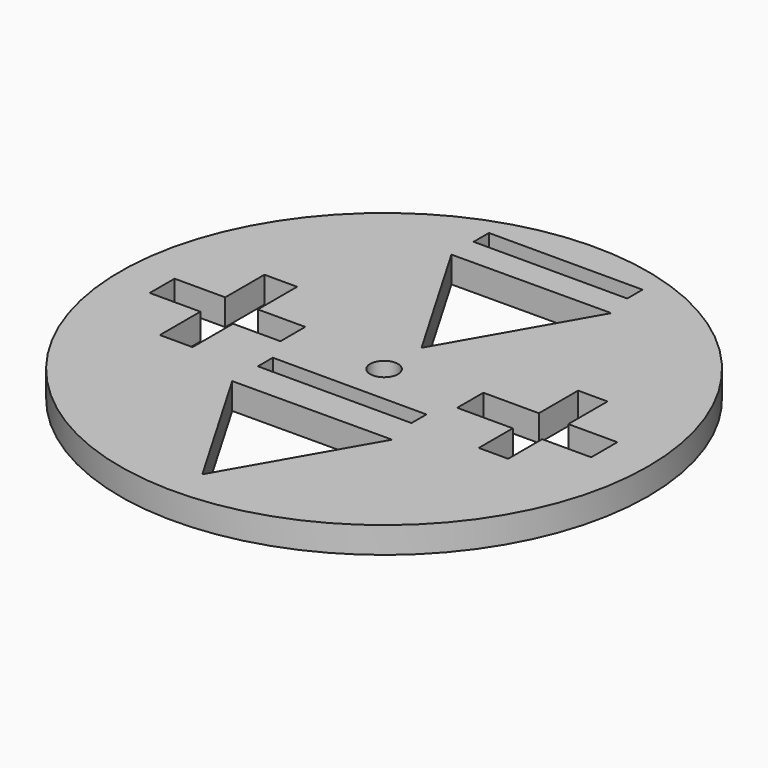
from build123d import *

# Parameters (mm, degrees)
F0_R      = 30.135624
F1_DEPTH  = 3
F2_R      = 1.590818
F3_DEPTH  = 25
F5_DEPTH  = 25
F6_W      = 3.730636
F6_H      = 14.922548
F7_DEPTH  = 25
F8_W      = 14.922549
F8_H      = 3.544105
F9_DEPTH  = 25
F10_W     = 3.357574
F10_H     = 14.176421
F11_DEPTH = 25
F12_W     = 15.295613
F12_H     = 3.730637
F13_DEPTH = 25
F14_W     = 17.537619
F14_H     = 2.187502
F14_H_2   = 2.134302
F15_DEPTH = 25


with BuildPart() as f1:
    # F0 (on Top) → F1 (new body)
    with BuildSketch(Plane.XY):
        Circle(F0_R)
    extrude(amount=F1_DEPTH)

    # F2 (on face) → F3 (cut)
    with BuildSketch(Plane.XY.offset(3)):
        Circle(F2_R)
    extrude(amount=-F3_DEPTH, mode=Mode.SUBTRACT)

    # F4 (on face) → F5 (cut)
    with BuildSketch(Plane.XY.offset(3)):
        Polygon((0.042525, 5.293039), (9.073219, 21.08197), (-9.115743, 21.008315), align=None)
        Polygon((0.042525, -25.99019), (9.073219, -10.201259), (-9.115743, -10.274914), align=None)
    extrude(amount=-F5_DEPTH, mode=Mode.SUBTRACT)

    # F6 (on face) → F7 (cut)
    with BuildSketch(Plane.XY.offset(3)):
        with Locations((-17.842693, 0.09647)):
            Rectangle(F6_W, F6_H)
    extrude(amount=-F7_DEPTH, mode=Mode.SUBTRACT)

    # F8 (on face) → F9 (cut)
    with BuildSketch(Plane.XY.offset(3)):
        with Locations((-18.029225, 0.189735)):
            Rectangle(F8_W, F8_H)
    extrude(amount=-F9_DEPTH, mode=Mode.SUBTRACT)

    # F10 (on face) → F11 (cut)
    with BuildSketch(Plane.XY.offset(3)):
        with Locations((17.78489, 0.469533)):
            Rectangle(F10_W, F10_H)
    extrude(amount=-F11_DEPTH, mode=Mode.SUBTRACT)

    # F12 (on face) → F13 (cut)
    with BuildSketch(Plane.XY.offset(3)):
        with Locations((17.411827, 0.096469)):
            Rectangle(F12_W, F12_H)
    extrude(amount=-F13_DEPTH, mode=Mode.SUBTRACT)

    # F14 (on face) → F15 (cut)
    with BuildSketch(Plane.XY.offset(3)):
        with Locations((-0.346934, 25.265625)):
            Rectangle(F14_W, F14_H)
        with Locations((-0.346934, -5.551526)):
            Rectangle(F14_W, F14_H_2)
    extrude(amount=-F15_DEPTH, mode=Mode.SUBTRACT)


solid = f1.part
